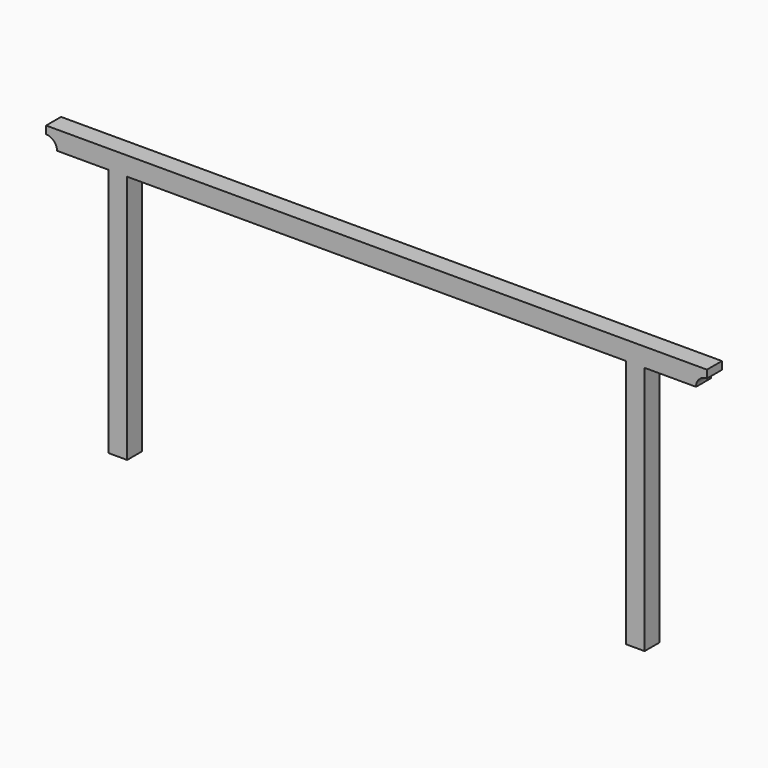
from build123d import *

# Parameters (mm, degrees)
F0_W     = 150
F0_H     = 2000
F0_W_2   = 500
F0_H_2   = 150
F1_DEPTH = 150
F2_D     = 175
F3_D     = 175


with BuildPart() as f1:
    # F0 (on Front) → F1 (new body)
    with BuildSketch(Plane.XZ):
        with Locations((75, 1000)):
            Rectangle(F0_W, F0_H)
        Polygon((-4000, 2000), (0, 2000), (150, 2000), (150, 2150), (-4150, 2150), (-4150, 2000), align=None)
        with Locations((400, 2075)):
            Rectangle(F0_W_2, F0_H_2)
        with Locations((-4075, 1000)):
            Rectangle(F0_W, F0_H)
        with Locations((-4400, 2075)):
            Rectangle(F0_W_2, F0_H_2)
    extrude(amount=-F1_DEPTH)

    # F2 (through all)
    with Locations(Plane.XZ):
        with Locations((-4650, 2000)):
            Hole(F2_D / 2)

    # F3 (through all)
    with Locations(Plane.XZ):
        with Locations((650, 2000)):
            Hole(F3_D / 2)


solid = f1.part
